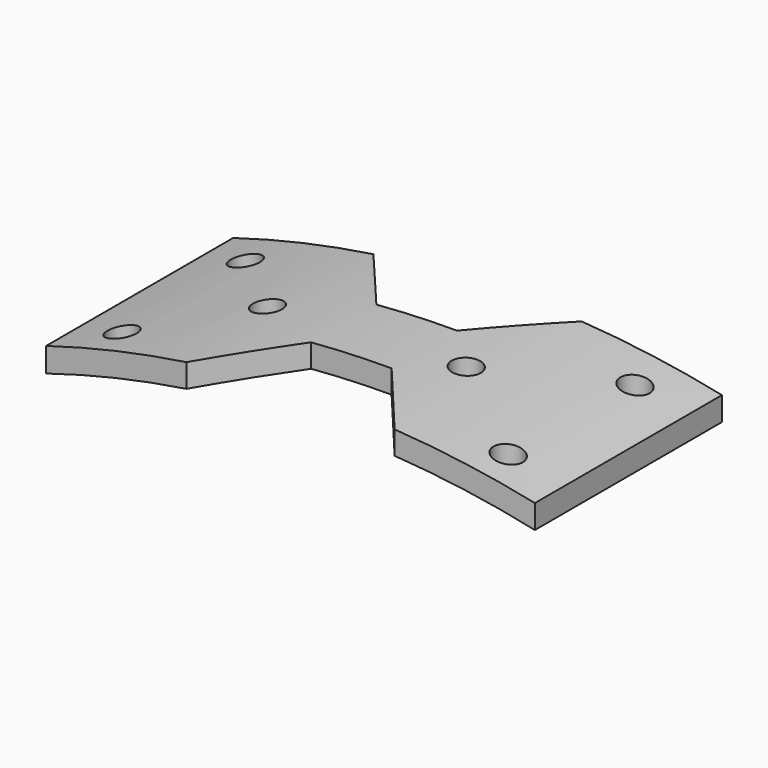
from build123d import *

# Parameters (mm, degrees)
F1_DEPTH = 85.57783
F2_W     = 470.658332
F2_H     = 132.007137
F3_DEPTH = 332.33001
F4_R     = 3.175
F5_DEPTH = 369.06305


with BuildPart() as f1:
    # F0 (on Front) → F1 (new body)
    with BuildSketch(Plane.XZ):
        with BuildLine():
            ThreePointArc((-209.55, 0), (0, 209.55), (209.55, 0))
            Line((209.55, 0), (214.597345, 0))
            ThreePointArc((214.597345, 0), (0, 214.597345), (-214.597345, 0))
            Line((-214.597345, 0), (-209.55, 0))
        make_face()
    extrude(amount=F1_DEPTH)

    # F2 (on Top) → F3 (cut)
    with BuildSketch(Plane.XY):
        with Locations((5.359113, -37.707031)):
            Rectangle(F2_W, F2_H)
        Polygon((-61.859035, -72.326824), (-61.859035, -21.526824), (-31.379035, -21.526824), (-17.515417, -38.048841), (0, -38.048841), (13.863618, -21.526824), (44.343618, -21.526824), (44.343618, -72.326824), (13.863618, -72.326824), (0, -55.804808), (-17.515417, -55.804808), (-31.379035, -72.326824), align=None, mode=Mode.SUBTRACT)
    extrude(amount=F3_DEPTH, mode=Mode.SUBTRACT)

    # F4 (on Top) → F5 (cut)
    with BuildSketch(Plane.XY):
        with Locations((-51.647099, -30.972526)):
            Circle(F4_R)
        with Locations((-51.647099, -64.446411)):
            Circle(F4_R)
        with Locations((-33.92563, -47.118752)):
            Circle(F4_R)
        with Locations((9.262242, -47.118752)):
            Circle(F4_R)
        with Locations((33.022132, -30.972526)):
            Circle(F4_R)
        with Locations((32.234513, -64.446411)):
            Circle(F4_R)
    extrude(amount=F5_DEPTH, mode=Mode.SUBTRACT)


solid = f1.part
